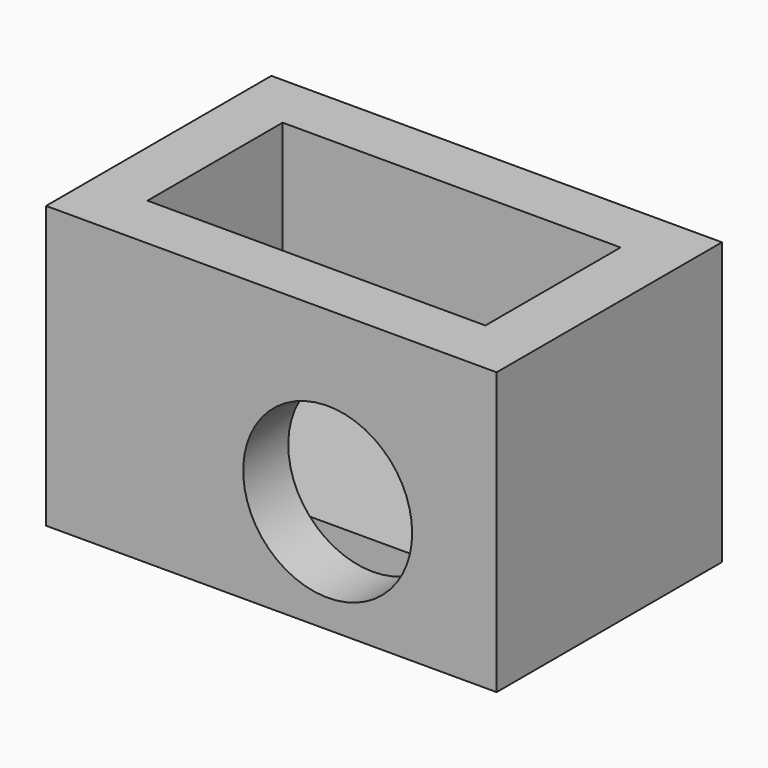
from build123d import *

# Parameters (mm, degrees)
F0_W     = 80
F0_H     = 50
F1_DEPTH = 50
F2_W     = 60
F2_H     = 30
F3_DEPTH = 40
F4_R     = 15
F5_DEPTH = 10


with BuildPart() as f1:
    # F0 (on Top) → F1 (new body)
    with BuildSketch(Plane.XY):
        Rectangle(F0_W, F0_H)
    extrude(amount=F1_DEPTH)

    # F2 (on face) → F3 (cut)
    with BuildSketch(Plane.XY.offset(50)):
        Rectangle(F2_W, F2_H)
    extrude(amount=-F3_DEPTH, mode=Mode.SUBTRACT)

    # F4 (on face) → F5 (cut, through all)
    with BuildSketch(Plane.XZ.offset(25)):
        with Locations((10, 20)):
            Circle(F4_R)
    extrude(amount=-F5_DEPTH, mode=Mode.SUBTRACT)


solid = f1.part
